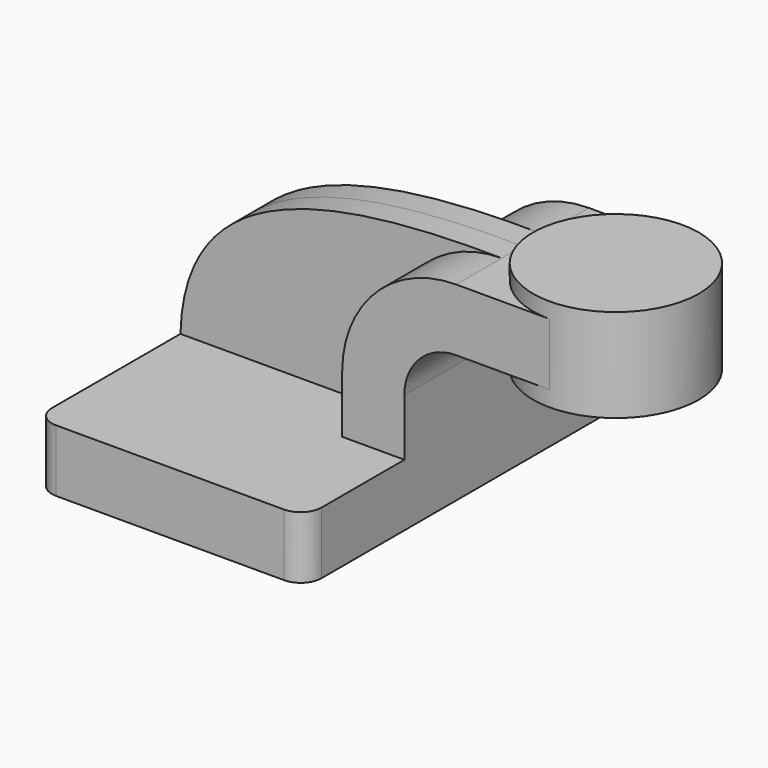
from build123d import *

# Parameters (mm, degrees)
F1_DEPTH = 63.5
F2_DEPTH = 25.4
F0_W     = 25.4
F0_H     = 19.05
F3_DEPTH = 25.4
F4_DEPTH = 7.9375
F6_R     = 6.35


with BuildPart() as f1:
    # F0 (on Front) → F1 (new body, symmetric)
    with BuildSketch(Plane.XZ):
        Polygon((22.225, 9.525), (-41.275, 9.525), (-41.275, -9.525), (41.275, -9.525), (41.275, 9.525), align=None)
    extrude(amount=F1_DEPTH, both=True)

    # F0 (on Front) → F2 (join, symmetric)
    with BuildSketch(Plane.XZ):
        with BuildLine():
            Line((22.225, 27.0002), (22.225, 9.525))
            Line((22.225, 9.525), (41.275, 9.525))
            Line((41.275, 9.525), (41.275, 27.0002))
            ThreePointArc((41.275, 27.0002), (45.9246798487, 38.2255201513), (57.15, 42.8752))
            Line((57.15, 42.8752), (60.325, 42.8752))
            Line((60.325, 42.8752), (60.325, 61.9252))
            Line((60.325, 61.9252), (57.15, 61.9252))
            ThreePointArc((57.15, 61.9252), (32.4542956671, 51.6959043329), (22.225, 27.0002))
        make_face()
    extrude(amount=F2_DEPTH, both=True)

    # F0 (on Front) → F3 (join, symmetric)
    with BuildSketch(Plane.XZ):
        with Locations((73.025, 52.4002)):
            Rectangle(F0_W, F0_H)
    extrude(amount=F3_DEPTH, both=True)

    # F0 (on Front) → F4 (join, symmetric)
    with BuildSketch(Plane.XZ):
        with BuildLine():
            add(Edge.make_bspline(
                [(-41.275, 9.525), (-40.1356369257, 51.84443295), (0, 62.6272857189), (57.15, 61.9252)],
                knots=[0, 0, 0, 0, 111.5045361635, 111.5045361635, 111.5045361635, 111.5045361635], degree=3))
            Line((-41.275, 9.525), (22.225, 9.525))
            Line((22.225, 9.525), (22.225, 27.0002))
            ThreePointArc((22.225, 27.0002), (32.4542956671, 51.6959043329), (57.15, 61.9252))
        make_face()
    extrude(amount=F4_DEPTH, both=True)

    # F0 (on Front) → F5 (revolve)
    with BuildSketch(Plane.XZ):
        Polygon((85.725, 66.675), (85.725, 61.9252), (85.725, 42.8752), (85.725, 38.1), (111.125, 38.1), (111.125, 66.675), align=None)
    revolve(axis=Axis((85.725, 0, 52.3875), (0, 0, 1)))

    # F6
    f6_edges = [f1.edges().sort_by_distance(p)[0] for p in [
        (41.275, -63.5, 0),
        (-41.275, -63.5, 0),
        (41.275, 63.5, 0),
        (-41.275, 63.5, 0),
    ]]
    fillet(f6_edges, radius=F6_R)


solid = f1.part
